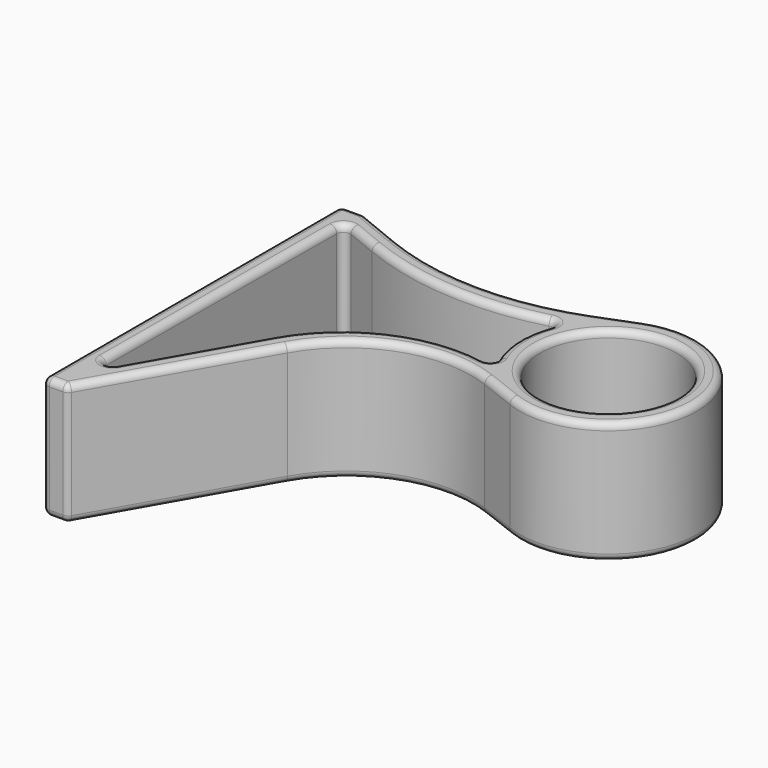
from build123d import *

# Parameters (mm, degrees)
SKETCH_R  = 10.1
PAD_DEPTH = 18
FILLET_R  = 1


with BuildPart() as part:
    # Sketch → Pad (new body)
    with BuildSketch(Plane.XY):
        with BuildLine():
            ThreePointArc((45.269329, -12.216004), (63.1, 0), (45.269329, 12.216004))
            Line((39.805176, 10.1), (45.269329, 12.216004))
            ThreePointArc((10.297701, 10.35889), (25.026661, 7.405454), (39.805176, 10.1))
            Line((3.75368, 13.02604), (10.297701, 10.35889))
            ThreePointArc((3.75368, 13.02604), (3.568556, 13.081336), (3.376254, 13.1))
            Line((0, 13.1), (3.376254, 13.1))
            Line((0, 13.1), (0, -41.9))
            Line((0, -41.9), (2.991625, -41.9))
            ThreePointArc((2.991625, -41.9), (3.493724, -41.76481), (3.860066, -41.395793))
            Line((3.860066, -41.395793), (17.128526, -18.154496))
            ThreePointArc((39.805176, -10.1), (26.972192, -9.91918), (17.128526, -18.154496))
            Line((39.805176, -10.1), (45.269329, -12.216004))
        make_face()
        with Locations((50, 0)):
            Circle(SKETCH_R, mode=Mode.SUBTRACT)
        with BuildLine():
            ThreePointArc((8.993319, 7.6573), (23.707392, 4.474008), (38.625194, 6.497983))
            ThreePointArc((38.625194, 6.497983), (36.906396, -0.409308), (39.053262, -7.195757))
            ThreePointArc((39.053262, -7.195757), (24.924828, -7.919159), (14.274334, -17.230599))
            Line((2.75113, -37.41487), (14.274334, -17.230599))
            Line((3, 10.1), (2.75113, -37.41487))
            Line((3, 10.1), (8.993319, 7.6573))
        make_face(mode=Mode.SUBTRACT)
    extrude(amount=PAD_DEPTH)

    # Fillet
    fillet_edges = [part.edges().sort_by_distance(p)[0] for p in [
        (39.805176, -10.1, 9),
        (45.269329, -12.216004, 9),
        (42.537252, -11.158002, 0),
        (42.537252, -11.158002, 18),
        (45.269329, 12.216004, 9),
        (63.1, 0, 0),
        (63.1, 0, 18),
        (39.805176, 10.1, 9),
        (42.537252, 11.158002, 0),
        (42.537252, 11.158002, 18),
        (10.297701, 10.35889, 9),
        (25.026661, 7.405454, 0),
        (25.026661, 7.405454, 18),
        (3.75368, 13.02604, 9),
        (7.025691, 11.692465, 0),
        (7.025691, 11.692465, 18),
        (3.376254, 13.1, 9),
        (3.568556, 13.081336, 0),
        (3.568556, 13.081336, 18),
        (0, 13.1, 9),
        (1.688127, 13.1, 0),
        (1.688127, 13.1, 18),
        (0, -41.9, 9),
        (0, -14.4, 0),
        (0, -14.4, 18),
        (2.991625, -41.9, 9),
        (1.495812, -41.9, 0),
        (1.495812, -41.9, 18),
        (3.860066, -41.395793, 9),
        (3.493724, -41.76481, 0),
        (3.493724, -41.76481, 18),
        (17.128526, -18.154496, 9),
        (10.494296, -29.775145, 0),
        (10.494296, -29.775145, 18),
        (26.972192, -9.91918, 0),
        (26.972192, -9.91918, 18),
        (8.993319, 7.6573, 9),
        (38.625194, 6.497983, 9),
        (23.707392, 4.474008, 0),
        (23.707392, 4.474008, 18),
        (39.053262, -7.195757, 9),
        (36.906396, -0.409308, 0),
        (36.906396, -0.409308, 18),
        (14.274334, -17.230599, 9),
        (24.924828, -7.919159, 0),
        (24.924828, -7.919159, 18),
        (2.75113, -37.41487, 9),
        (8.512732, -27.322734, 0),
        (8.512732, -27.322734, 18),
        (3, 10.1, 9),
        (2.875565, -13.657435, 0),
        (2.875565, -13.657435, 18),
        (5.99666, 8.87865, 0),
        (5.99666, 8.87865, 18),
        (60.1, 0, 9),
        (39.9, 0, 0),
        (39.9, 0, 18),
    ]]
    fillet(fillet_edges, radius=FILLET_R)


solid = part.part
